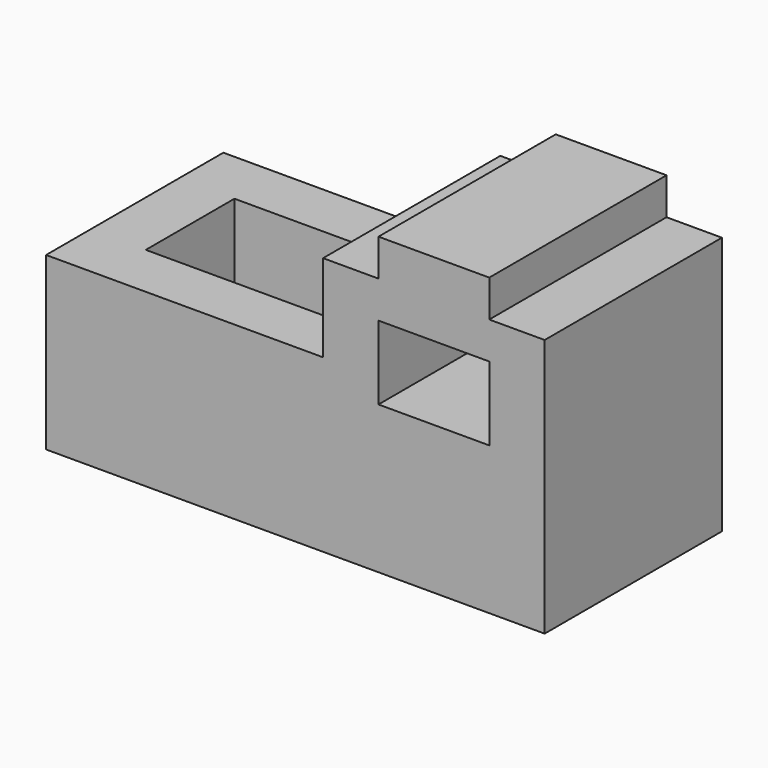
from build123d import *

# Parameters (mm, degrees)
F1_DEPTH = 1219.2
F2_W     = 1219.2
F2_H     = 609.6
F3_DEPTH = 609.6
F4_W     = 609.6
F4_H     = 406.4
F5_DEPTH = 1219.2


with BuildPart() as f1:
    # F0 (on Front) → F1 (new body)
    with BuildSketch(Plane.XZ):
        Polygon((0, 942.166507), (0, 0), (2743.2, 0), (2743.2, 1422.4), (2438.4, 1422.4), (2438.4, 1625.6), (1828.8, 1625.6), (1828.8, 1422.4), (1524, 1422.4), (1524, 1201.297045), (1524, 1117.6), (1524, 942.166507), align=None)
    extrude(amount=F1_DEPTH)

    # F2 (on face) → F3 (cut)
    with BuildSketch(Plane.XY.offset(942.166507)):
        with Locations((914.4, -609.6)):
            Rectangle(F2_W, F2_H)
    extrude(amount=-F3_DEPTH, mode=Mode.SUBTRACT)

    # F4 (on face) → F5 (cut)
    with BuildSketch(Plane.XZ.offset(1219.2)):
        with Locations((2133.6, 1016)):
            Rectangle(F4_W, F4_H)
    extrude(amount=-F5_DEPTH, mode=Mode.SUBTRACT)


solid = f1.part
